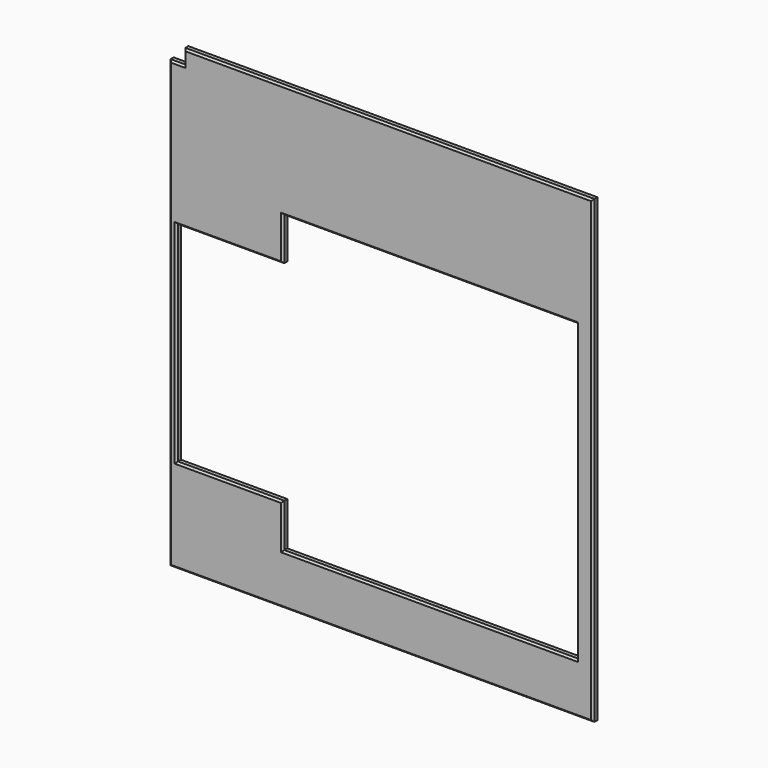
from build123d import *

# Parameters (mm, degrees)
F1_DEPTH = 9.652
F2_SIZE  = 3.175


with BuildPart() as f1:
    # F0 (on Front) → F1 (new body)
    with BuildSketch(Plane.XZ):
        Polygon((-447.799887, 472.379832), (-447.799887, -299.272168), (285.752113, -299.272168), (285.752113, 497.779832), (-422.399887, 497.779832), (-422.399887, 472.379832), align=None)
        Polygon((-250.949887, 225.237832), (-250.949887, 299.405832), (257.050113, 299.405832), (257.050113, -211.896168), (-250.949887, -211.896168), (-250.949887, -136.712168), (-435.099887, -136.712168), (-435.099887, 225.237832), align=None, mode=Mode.SUBTRACT)
    extrude(amount=F1_DEPTH)

    # F2
    f2_edges = [f1.edges().sort_by_distance(p)[0] for p in [
        (-68.323887, -9.652, 497.779832),
        (-447.799887, -9.652, 86.553832),
        (-81.023887, -9.652, -299.272168),
        (285.752113, -9.652, 99.253832),
        (-422.399887, -9.652, 485.079832),
        (-435.099887, -9.652, 472.379832),
        (-435.099887, -9.652, 44.262832),
        (-343.024887, -9.652, 225.237832),
        (-250.949887, -9.652, 262.321832),
        (3.050113, -9.652, 299.405832),
        (257.050113, -9.652, 43.754832),
        (3.050113, -9.652, -211.896168),
        (-250.949887, -9.652, -174.304168),
        (-343.024887, -9.652, -136.712168),
    ]]
    chamfer(f2_edges, length=F2_SIZE)


solid = f1.part
